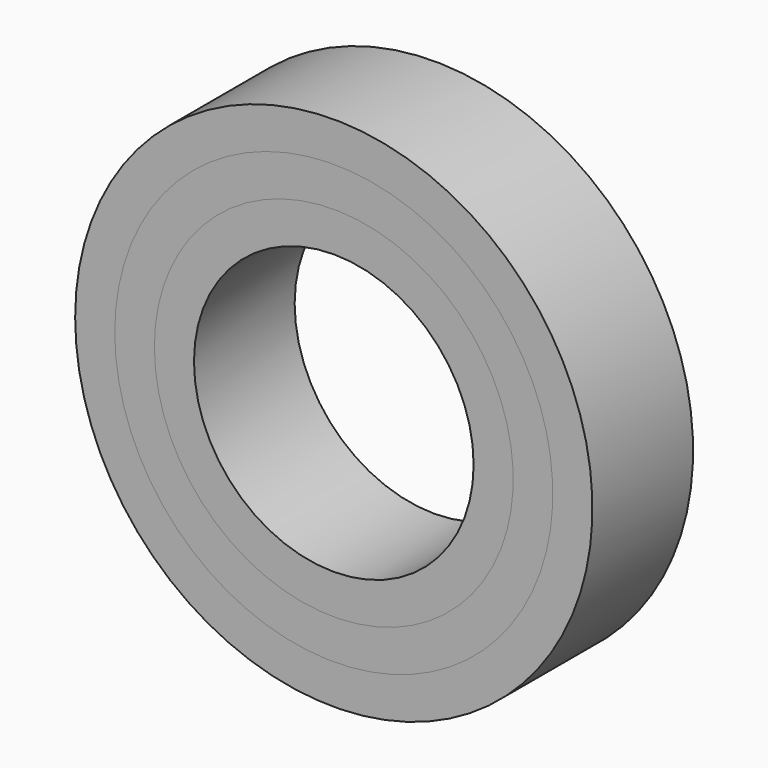
from build123d import *

# Parameters (mm, degrees)
F0_W   = 2.833333
F0_H   = 9
F0_W_2 = 2.833334


with BuildPart() as f1:
    # F0 (on Top) → F1 (revolve)
    with BuildSketch(Plane.XY):
        with Locations((1.416666, 4.5)):
            Rectangle(F0_W, F0_H)
    revolve(axis=Axis((18.5, 4.5, 0), (0, 1, 0)))


with BuildPart() as f2:
    # F0 (on Top) → F2 (revolve)
    with BuildSketch(Plane.XY):
        with Locations((4.25, 4.5)):
            Rectangle(F0_W_2, F0_H)
    revolve(axis=Axis((18.5, 4.5, 0), (0, 1, 0)))


with BuildPart() as f3:
    # F0 (on Top) → F3 (revolve)
    with BuildSketch(Plane.XY):
        with Locations((7.083334, 4.5)):
            Rectangle(F0_W, F0_H)
    revolve(axis=Axis((18.5, 4.5, 0), (0, 1, 0)))


solid = Compound([f1.part, f2.part, f3.part])
